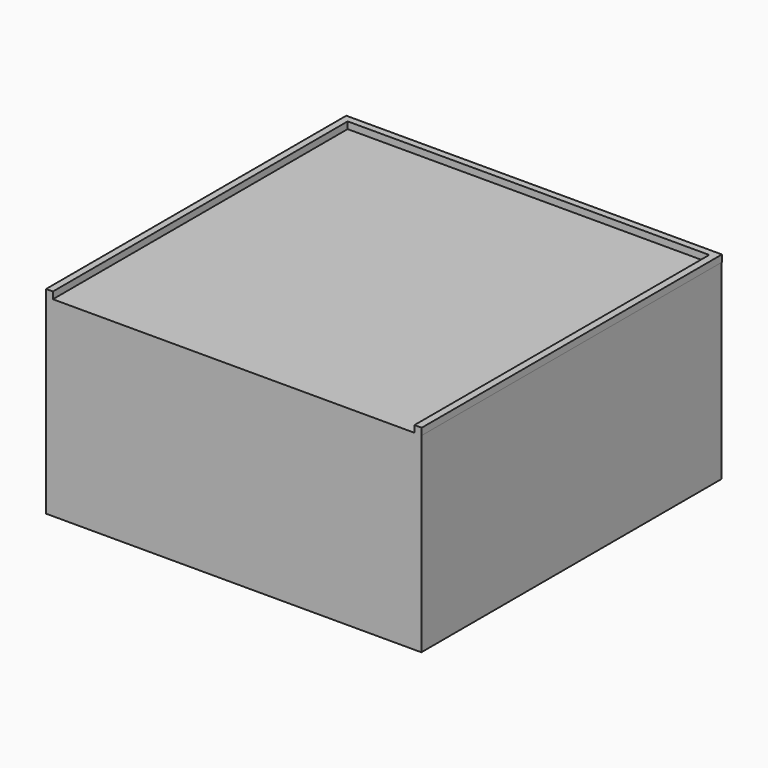
from build123d import *

# Parameters (mm, degrees)
F2_DEPTH = 1
F0_W     = 55
F0_H     = 55
F3_DEPTH = 28


with BuildPart() as f2:
    # F1 (on face) → F2 (new body)
    with BuildSketch(Plane.XY):
        Polygon((1, -1), (54, -1), (54, -55), (55.060755, -55), (55.060755, 0), (0, 0), (0, -55), (1, -55), align=None)
    extrude(amount=F2_DEPTH)

    # F0 (on Top) → F3 (join)
    with BuildSketch(Plane.XY):
        with Locations((27.5, -27.5)):
            Rectangle(F0_W, F0_H)
    extrude(amount=-F3_DEPTH)


solid = f2.part
